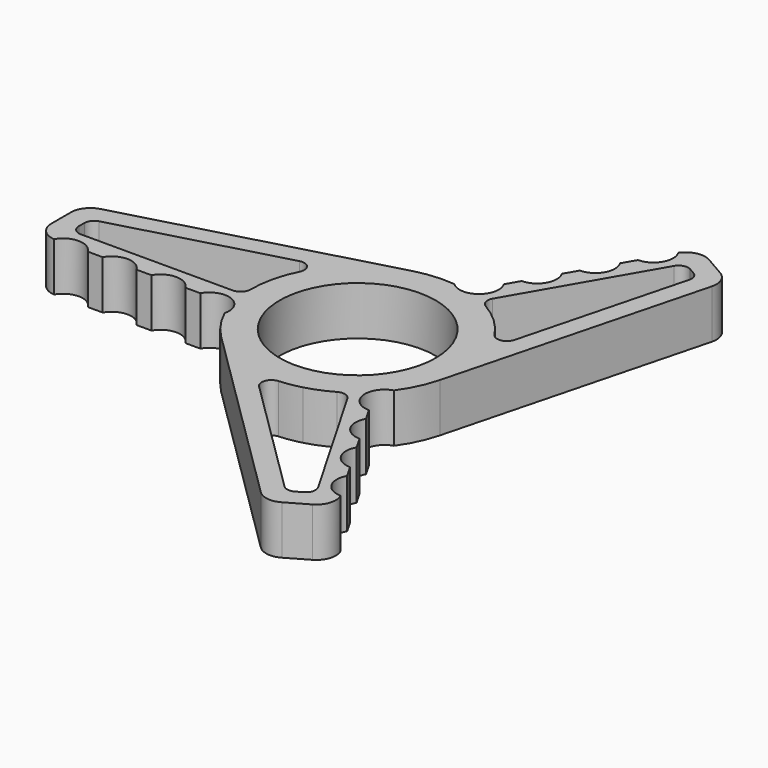
from build123d import *

# Parameters (mm, degrees)
F0_R     = 8
F1_DEPTH = 5
F2_R     = 2
F3_DEPTH = 25


with BuildPart() as f1:
    # F0 (on Top) → F1 (new body)
    with BuildSketch(Plane.XY):
        with BuildLine():
            ThreePointArc((-30.583005, -1), (-29.997219, -2.414214), (-28.583005, -3))
            Line((-28.583005, -3), (-12.328828, -3))
            ThreePointArc((-12.328828, -3), (-10.968, -3.402824), (-10.045712, -4.481481))
            ThreePointArc((-10.045712, -4.481481), (-9.04279, -6.263222), (-7.727447, -7.828573))
            Line((-7.727447, -7.828573), (11.608563, -26.91481))
            ThreePointArc((11.608563, -26.91481), (12.758948, -27.475161), (14.013553, -27.223484))
            Line((14.013553, -27.223484), (16.157528, -25.985659))
            ThreePointArc((16.157528, -25.985659), (17.08938, -24.771247), (16.889579, -23.253609))
            Line((16.889579, -23.253609), (8.76249, -9.177078))
            ThreePointArc((8.76249, -9.177078), (8.430932, -7.797155), (8.903933, -6.459101))
            ThreePointArc((8.903933, -6.459101), (9.945504, -4.699675), (10.643467, -2.777879))
            Line((10.643467, -2.777879), (17.504628, 23.510715))
            ThreePointArc((17.504628, 23.510715), (17.414713, 24.787153), (16.569452, 25.747835))
            Line((16.569452, 25.747835), (14.425477, 26.985659))
            ThreePointArc((14.425477, 26.985659), (12.907839, 27.18546), (11.693426, 26.253609))
            Line((11.693426, 26.253609), (3.566338, 12.177078))
            ThreePointArc((3.566338, 12.177078), (2.537068, 11.199979), (1.141779, 10.940582))
            ThreePointArc((1.141779, 10.940582), (-0.902714, 10.962897), (-2.91602, 10.606452))
            Line((-2.91602, 10.606452), (-29.113191, 3.404094))
            ThreePointArc((-29.113191, 3.404094), (-30.173661, 2.688008), (-30.583005, 1.475649))
            Line((-30.583005, 1.475649), (-30.583005, -1))
        make_face()
        with BuildLine():
            Line((6.866025, -9.892305), (14.657528, -23.387583))
            ThreePointArc((14.657528, -23.387583), (14.757428, -24.146402), (14.291503, -24.753609))
            Line((14.291503, -24.753609), (13.673617, -25.110345))
            ThreePointArc((13.673617, -25.110345), (13.046314, -25.236184), (12.471122, -24.956008))
            Line((12.471122, -24.956008), (0.043078, -12.688504))
            ThreePointArc((0.043078, -12.688504), (-0.190899, -11.626074), (0.683442, -10.978748))
            ThreePointArc((0.683442, -10.978748), (1.804868, -10.850919), (2.907292, -10.608848))
            ThreePointArc((2.907292, -10.608848), (4.238352, -10.150683), (5.5, -9.526279))
            ThreePointArc((5.5, -9.526279), (6.258819, -9.426379), (6.866025, -9.892305))
        make_face(mode=Mode.SUBTRACT)
        with BuildLine():
            ThreePointArc((-11.010106, 6.306945), (-9.973026, 5.97836), (-9.849596, 4.897495))
            ThreePointArc((-9.849596, 4.897495), (-10.708538, 2.515397), (-11, 0))
            ThreePointArc((-11, 0), (-11.292893, -0.707107), (-12, -1))
            Line((-12, -1), (-27.583005, -1))
            ThreePointArc((-27.583005, -1), (-28.290112, -0.707107), (-28.583005, 0))
            Line((-28.583005, 0), (-28.583005, 0.713473))
            ThreePointArc((-28.583005, 0.713473), (-28.378333, 1.319652), (-27.848098, 1.677696))
            Line((-27.848098, 1.677696), (-11.010106, 6.306945))
        make_face(mode=Mode.SUBTRACT)
        Circle(F0_R, mode=Mode.SUBTRACT)
        with BuildLine():
            Line((5.133975, 10.892305), (12.925477, 24.387583))
            ThreePointArc((12.925477, 24.387583), (13.532684, 24.853509), (14.291503, 24.753609))
            Line((14.291503, 24.753609), (14.909388, 24.396872))
            ThreePointArc((14.909388, 24.396872), (15.332019, 23.916531), (15.376976, 23.278312))
            Line((15.376976, 23.278312), (10.967028, 6.381559))
            ThreePointArc((10.967028, 6.381559), (10.163925, 5.647714), (9.166153, 6.081252))
            ThreePointArc((9.166153, 6.081252), (7.532667, 8.016167), (5.5, 9.526279))
            ThreePointArc((5.5, 9.526279), (5.034074, 10.133486), (5.133975, 10.892305))
        make_face(mode=Mode.SUBTRACT)
    extrude(amount=F1_DEPTH)

    # F2 (on face) → F3 (cut)
    with BuildSketch(Plane.XY.offset(5)):
        with Locations((-27, -4)):
            Circle(F2_R)
        with Locations((-22, -4)):
            Circle(F2_R)
        with Locations((-17, -4)):
            Circle(F2_R)
        with Locations((-12, -4)):
            Circle(F2_R)
        with Locations((9.464102, -8.392305)):
            Circle(F2_R)
        with Locations((11.964102, -12.722432)):
            Circle(F2_R)
        with Locations((16.964102, -21.382686)):
            Circle(F2_R)
        with Locations((14.464102, -17.052559)):
            Circle(F2_R)
        with Locations((2.535898, 12.392305)):
            Circle(F2_R)
        with Locations((5.035898, 16.722432)):
            Circle(F2_R)
        with Locations((10.035898, 25.382686)):
            Circle(F2_R)
        with Locations((7.535898, 21.052559)):
            Circle(F2_R)
    extrude(amount=-F3_DEPTH, mode=Mode.SUBTRACT)


solid = f1.part
